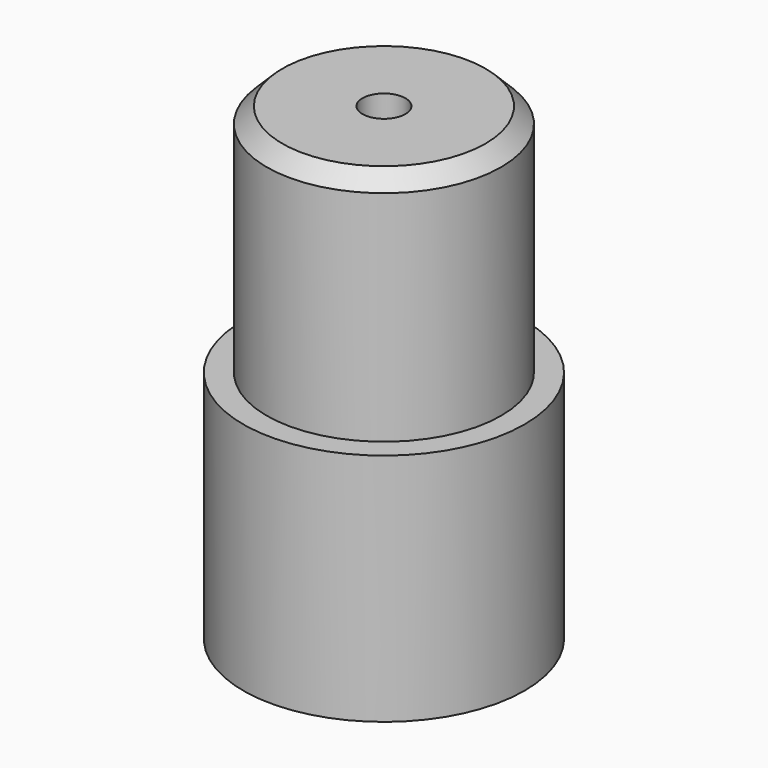
from build123d import *

# Parameters (mm, degrees)
F0_R     = 18
F1_DEPTH = 30
F2_R     = 15
F3_DEPTH = 30
F5_D     = 5.5
F6_SIZE  = 2


with BuildPart() as f1:
    # F0 (on Top) → F1 (new body)
    with BuildSketch(Plane.XY):
        Circle(F0_R)
    extrude(amount=F1_DEPTH)

    # F2 (on face) → F3 (join)
    with BuildSketch(Plane.XY.offset(30)):
        Circle(F2_R)
    extrude(amount=F3_DEPTH)

    # F5 (through all)
    with Locations(Plane(origin=(0, 0, 0), x_dir=(1, 0, 0), z_dir=(0, 0, -1))):
        with Locations((0, 0)):
            Hole(F5_D / 2)

    # F6
    f6_edges = [f1.edges().sort_by_distance(p)[0] for p in [
        (-15, 0, 60),
    ]]
    chamfer(f6_edges, length=F6_SIZE)


solid = f1.part
